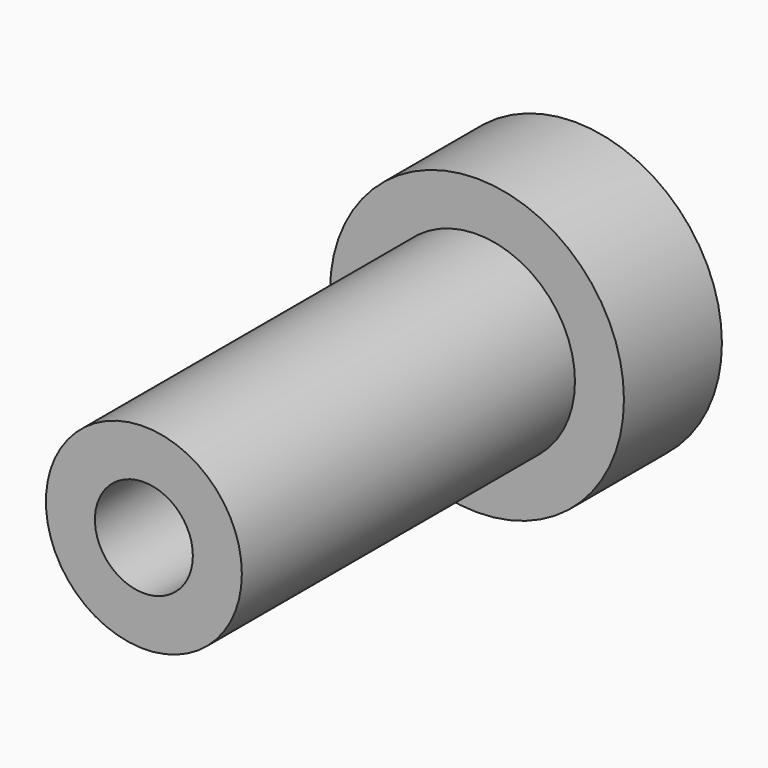
from build123d import *

# Parameters (mm, degrees)
F0_R     = 6
F1_DEPTH = 2.5
F2_R     = 4
F3_DEPTH = 17
F4_R     = 2
F5_DEPTH = 10


with BuildPart() as f1:
    # F0 (on Front) → F1 (new body, symmetric)
    with BuildSketch(Plane.XZ):
        Circle(F0_R)
    extrude(amount=F1_DEPTH, both=True)

    # F2 (on face) → F3 (join)
    with BuildSketch(Plane.XZ.offset(2.5)):
        Circle(F2_R)
    extrude(amount=F3_DEPTH)

    # F4 (on face) → F5 (cut)
    with BuildSketch(Plane.XZ.offset(19.5)):
        Circle(F4_R)
    extrude(amount=-F5_DEPTH, mode=Mode.SUBTRACT)


solid = f1.part
